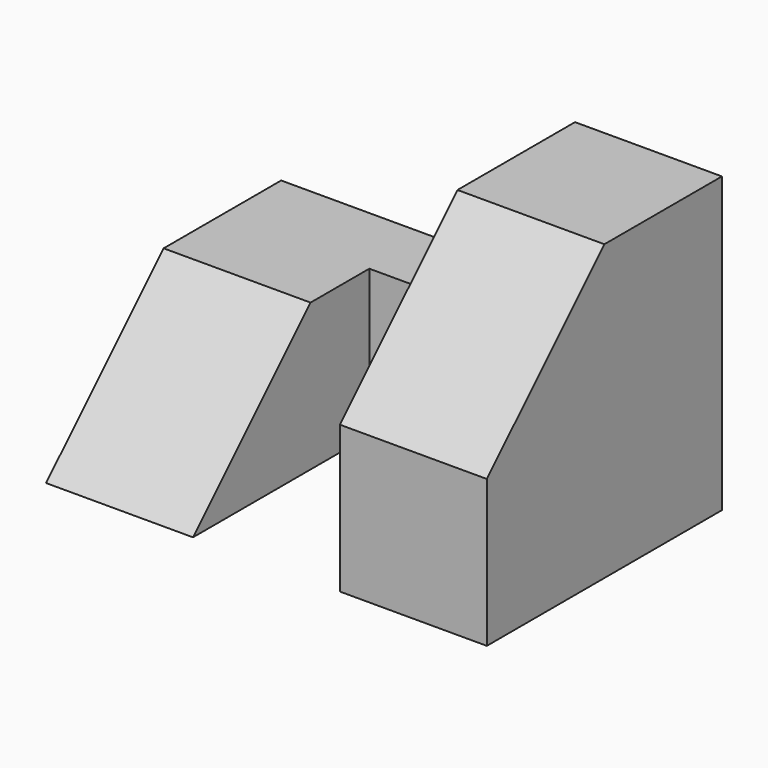
from build123d import *

# Parameters (mm, degrees)
F1_DEPTH = 12.7
F2_W     = 25.4
F2_H     = 12.7
F3_DEPTH = 6.35
F5_DEPTH = 12.7


with BuildPart() as f1:
    # F0 (on Right) → F1 (new body)
    with BuildSketch(Plane.YZ):
        Polygon((0, 12.7), (0, 0), (25.4, 0), (25.4, 25.4), (12.7, 25.4), align=None)
    extrude(amount=F1_DEPTH)

    # F2 (on face) → F3 (join)
    with BuildSketch(Plane(origin=(0, 25.4, 0), x_dir=(-1, 0, 0), z_dir=(0, 1, 0))):
        with Locations((12.7, 6.35)):
            Rectangle(F2_W, F2_H)
    extrude(amount=-F3_DEPTH)

    # F4 (on face) → F5 (join)
    with BuildSketch(Plane(origin=(-25.4, 0, 0), x_dir=(0, -1, 0), z_dir=(-1, 0, 0))):
        Polygon((-19.05, 12.7), (-19.05, 0), (0, 0), (-12.7, 12.7), align=None)
    extrude(amount=-F5_DEPTH)


solid = f1.part
